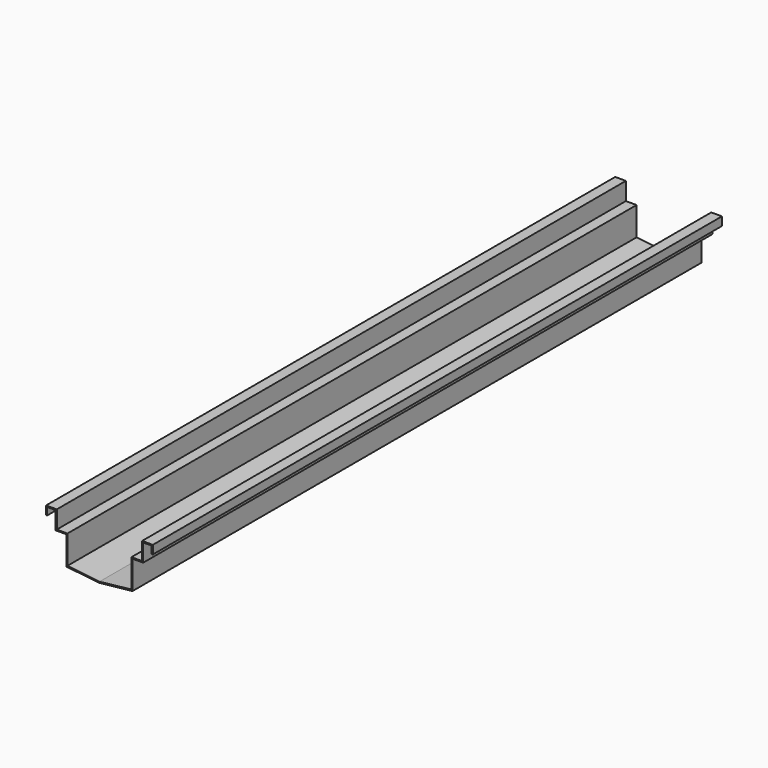
from build123d import *

# Parameters (mm, degrees)
F1_DEPTH = 1000


with BuildPart() as f1:
    # F0 (on Front) → F1 (new body)
    with BuildSketch(Plane.XZ):
        Polygon((0, 12), (0, 0), (1.5, 0), (1.5, 10.5), (13.5, 10.5), (13.5, -14.5), (28.5, -14.5), (28.5, -54.5), (75, -59.5), (121.5, -54.5), (121.5, -14.5), (136.5, -14.5), (136.5, 10.5), (148.5, 10.5), (148.5, 0), (150, 0), (150, 12), (135, 12), (135, -13), (120, -13), (120, -53), (75, -58), (30, -53), (30, -13), (15, -13), (15, 12), align=None)
    extrude(amount=F1_DEPTH)


solid = f1.part
